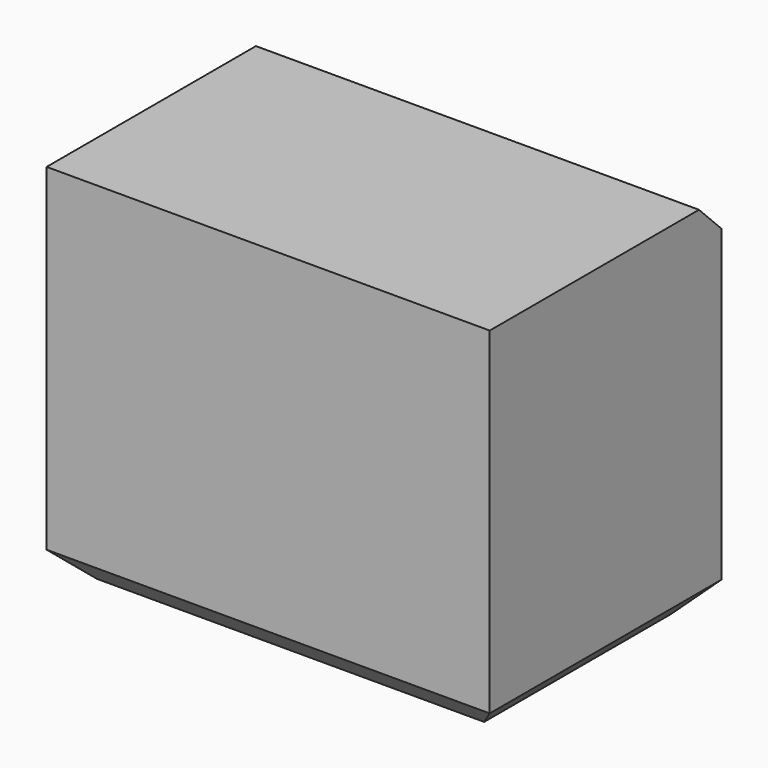
from build123d import *

# Parameters (mm, degrees)
F0_W     = 80.581218
F0_H     = 52.650921
F1_DEPTH = 66.373251
F2_SIZE  = 5.08
F3_SIZE  = 5.08


with BuildPart() as f1:
    # F0 (on Top) → F1 (new body)
    with BuildSketch(Plane.XY):
        with Locations((9.889513, 26.32546)):
            Rectangle(F0_W, F0_H)
    extrude(amount=F1_DEPTH)

    # F2
    f2_edges = [f1.edges().sort_by_distance(p)[0] for p in [
        (9.889513, 52.650921, 66.373251),
    ]]
    chamfer(f2_edges, length=F2_SIZE)

    # F3
    f3_edges = [f1.edges().sort_by_distance(p)[0] for p in [
        (9.889513, 52.650921, 0),
        (-30.401096, 26.325461, 0),
        (9.889513, 0, 0),
        (50.180122, 26.325461, 0),
    ]]
    chamfer(f3_edges, length=F3_SIZE)


solid = f1.part
